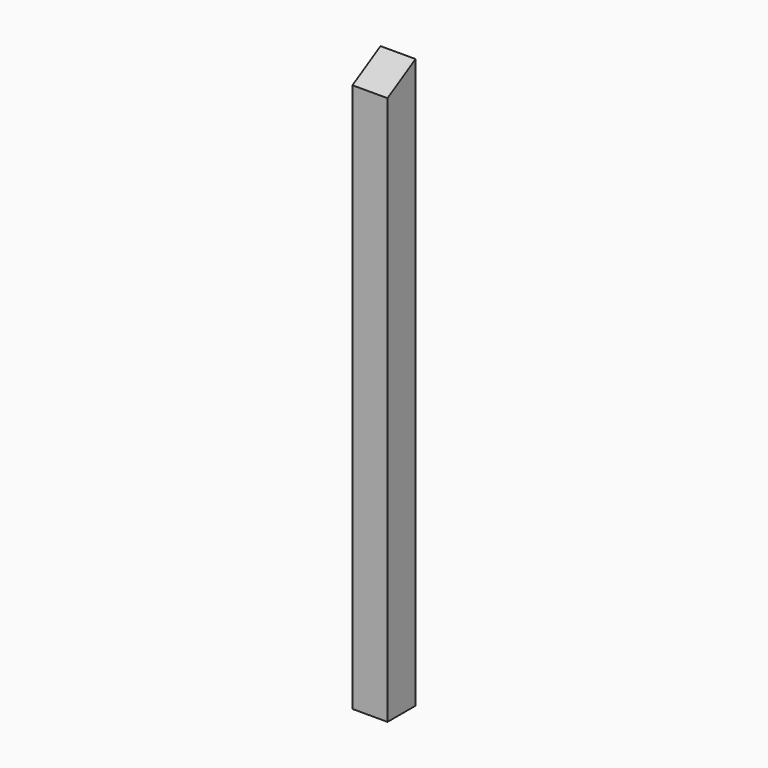
from build123d import *

# Parameters (mm, degrees)
F0_W     = 20
F0_H     = 325
F1_DEPTH = 20
F3_DEPTH = 20.001


with BuildPart() as f1:
    # F0 (on Front) → F1 (new body)
    with BuildSketch(Plane.XZ):
        Rectangle(F0_W, F0_H)
    extrude(amount=F1_DEPTH)

    # F2 (on face) → F3 (cut, through all)
    with BuildSketch(Plane(origin=(-10, 0, 0), x_dir=(0, -1, 0), z_dir=(-1, 0, 0))):
        Polygon((20, 162.5), (0, 162.5), (20, 150.952995), align=None)
    extrude(amount=-F3_DEPTH, mode=Mode.SUBTRACT)


solid = f1.part
